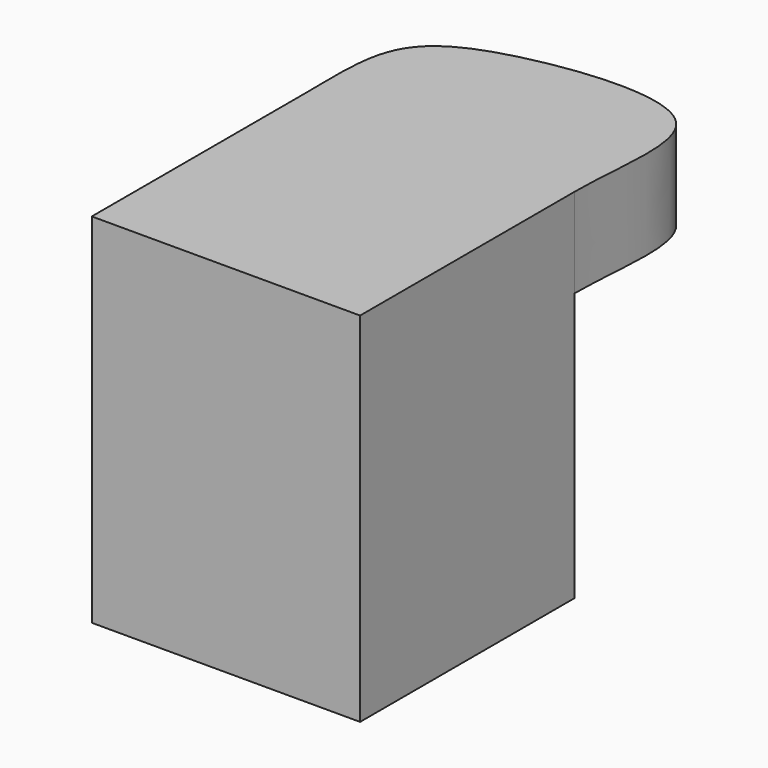
from build123d import *

# Parameters (mm, degrees)
F0_W     = 76.2
F0_H     = 101.6
F1_DEPTH = 38.1
F3_DEPTH = 25.4


with BuildPart() as f1:
    # F0 (on Front) → F1 (new body, symmetric)
    with BuildSketch(Plane.XZ):
        Rectangle(F0_W, F0_H)
    extrude(amount=F1_DEPTH, both=True)

    # F2 (on face) → F3 (join)
    with BuildSketch(Plane.XY.offset(50.8)):
        with BuildLine():
            Line((-38.1, 38.1), (38.1, 38.1))
            add(Edge.make_bspline(
                [(38.1, 38.1), (38.1, 54.8799396714), (46.7147109017, 89.0131970729), (-14.5604220618, 83.0046035668), (-39.6267479418, 69.4619774785), (-38.1, 48.7019718501), (-38.1, 38.1)],
                knots=[0, 0, 0, 0, 0.2694187621, 0.5580857593, 0.7747487645, 1, 1, 1, 1], degree=3))
        make_face()
    extrude(amount=-F3_DEPTH)


solid = f1.part
